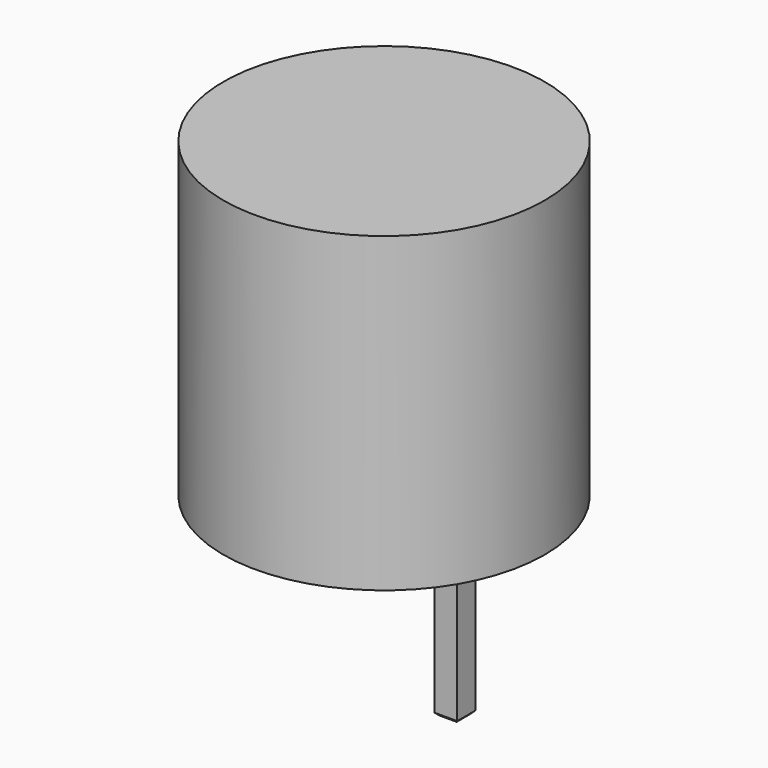
from build123d import *

# Parameters (mm, degrees)
F0_R     = 8.5
F1_DEPTH = 16.5
F2_W     = 1.2
F2_H     = 1.2
F3_DEPTH = 5
F4_DEPTH = 9
F5_SIZE  = 0.15


with BuildPart() as f1:
    # F0 (on Top) → F1 (new body)
    with BuildSketch(Plane.XY):
        Circle(F0_R)
    extrude(amount=F1_DEPTH)

    # F2 (on face) → F3 (join)
    with BuildSketch(Plane(origin=(0, 0, 0), x_dir=(1, 0, 0), z_dir=(0, 0, -1))):
        with Locations((-3.75, 0)):
            Rectangle(F2_W, F2_H)
    extrude(amount=F3_DEPTH)

    # F2 (on face) → F4 (join)
    with BuildSketch(Plane(origin=(0, 0, 0), x_dir=(1, 0, 0), z_dir=(0, 0, -1))):
        with Locations((3.75, 0)):
            Rectangle(F2_W, F2_H)
    extrude(amount=F4_DEPTH)

    # F5
    f5_edges = [f1.edges().sort_by_distance(p)[0] for p in [
        (-3.75, -0.6, -5),
        (-4.35, 0, -5),
        (-3.75, 0.6, -5),
        (-3.15, 0, -5),
        (3.15, 0, -9),
        (3.75, -0.6, -9),
        (4.35, 0, -9),
        (3.75, 0.6, -9),
    ]]
    chamfer(f5_edges, length=F5_SIZE)


solid = f1.part
